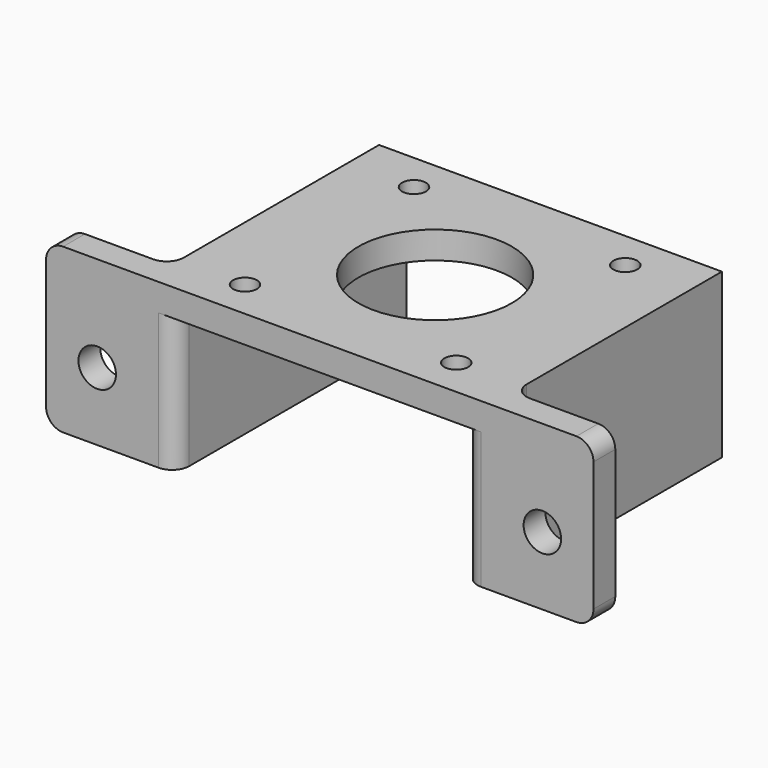
from build123d import *

# Parameters (mm, degrees)
F0_W     = 4
F0_H     = 38.3
F0_R     = 1.75
F0_R_2   = 11.25
F1_DEPTH = 4
F3_DEPTH = 20
F4_R     = 2.75
F5_DEPTH = 4
F6_R     = 2.5


with BuildPart() as f1:
    # F0 (on Top) → F1 (new body)
    with BuildSketch(Plane.XY):
        with Locations((-23.15, 2)):
            Rectangle(F0_W, F0_H)
        Polygon((21.15, 21.15), (-21.15, 21.15), (-21.15, -17.15), (-21.15, -21.15), (21.15, -21.15), (21.15, -17.15), align=None)
        with Locations((-15.495, -15.495)):
            Circle(F0_R, mode=Mode.SUBTRACT)
        with Locations((15.495, -15.495)):
            Circle(F0_R, mode=Mode.SUBTRACT)
        with Locations((-15.495, 15.495)):
            Circle(F0_R, mode=Mode.SUBTRACT)
        Circle(F0_R_2, mode=Mode.SUBTRACT)
        with Locations((15.495, 15.495)):
            Circle(F0_R, mode=Mode.SUBTRACT)
        with Locations((23.15, 2)):
            Rectangle(F0_W, F0_H)
        Polygon((-21.15, -21.15), (-21.15, -17.15), (-25.15, -17.15), (-40.15, -17.15), (-40.15, -21.15), align=None)
        Polygon((25.15, -17.15), (21.15, -17.15), (21.15, -21.15), (40.15, -21.15), (40.15, -17.15), align=None)
    extrude(amount=F1_DEPTH)

    # F2 (on face) → F3 (join)
    with BuildSketch(Plane(origin=(0, 0, 0), x_dir=(1, 0, 0), z_dir=(0, 0, -1))):
        Polygon((-25.15, -21.15), (-21.15, -21.15), (-21.15, 17.15), (-21.15, 21.15), (-40.15, 21.15), (-40.15, 17.15), (-25.15, 17.15), align=None)
        Polygon((21.15, 17.15), (21.15, -21.15), (25.15, -21.15), (25.15, 17.15), (40.15, 17.15), (40.15, 21.15), (21.15, 21.15), align=None)
    extrude(amount=F3_DEPTH)

    # F4 (on face) → F5 (cut, through all)
    with BuildSketch(Plane.XZ.offset(21.15)):
        with Locations((-32.65, -10)):
            Circle(F4_R)
        with Locations((32.65, -10)):
            Circle(F4_R)
    extrude(amount=-F5_DEPTH, mode=Mode.SUBTRACT)

    # F6
    f6_edges = [f1.edges().sort_by_distance(p)[0] for p in [
        (-40.15, -19.15, 4),
        (-40.15, -19.15, -20),
        (40.15, -19.15, -20),
        (40.15, -19.15, 4),
        (25.15, -17.15, -8),
        (-25.15, -17.15, -8),
        (21.15, -21.15, -10),
        (-21.15, -21.15, -10),
    ]]
    fillet(f6_edges, radius=F6_R)


solid = f1.part
